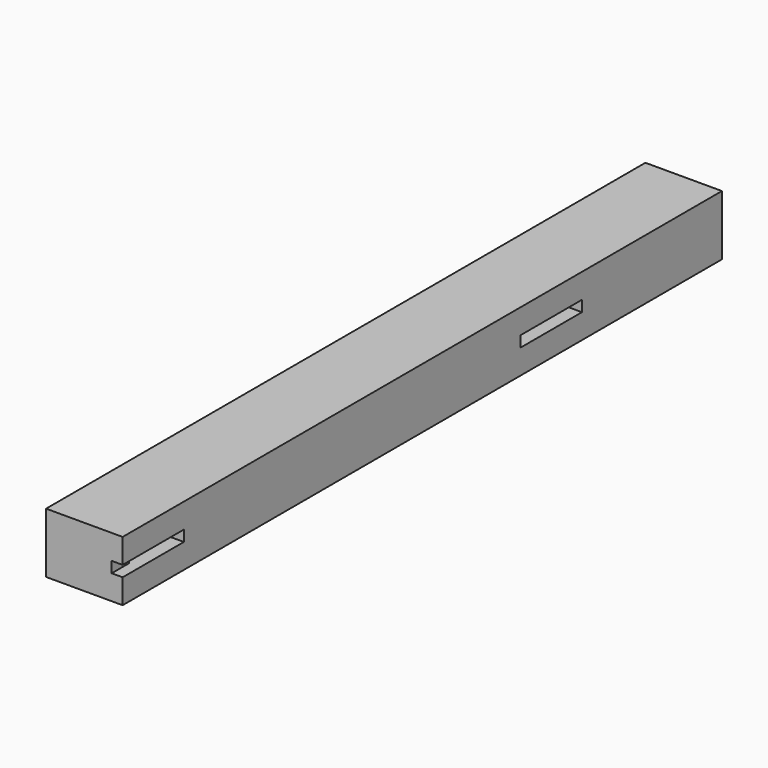
from build123d import *

# Parameters (mm, degrees)
F0_W     = 88.9
F0_H     = 69.85
F1_DEPTH = 869.95
F2_W     = 25.4
F2_H     = 12.7
F3_DEPTH = 12.7
F4_W     = 63.5
F4_H     = 12.7
F5_DEPTH = 88.9
F6_W     = 88.9
F6_H     = 12.7
F7_DEPTH = 88.9


with BuildPart() as f1:
    # F0 (on Front) → F1 (new body)
    with BuildSketch(Plane.XZ):
        with Locations((44.45, 23.882015)):
            Rectangle(F0_W, F0_H)
    extrude(amount=F1_DEPTH)

    # F2 (on face) → F3 (cut)
    with BuildSketch(Plane.YZ.offset(88.9)):
        with Locations((-857.25, 23.882015)):
            Rectangle(F2_W, F2_H)
    extrude(amount=-F3_DEPTH, mode=Mode.SUBTRACT)

    # F4 (on face) → F5 (cut, through all)
    with BuildSketch(Plane.YZ.offset(88.9)):
        with Locations((-812.8, 23.882015)):
            Rectangle(F4_W, F4_H)
    extrude(amount=-F5_DEPTH, mode=Mode.SUBTRACT)

    # F6 (on face) → F7 (cut, through all)
    with BuildSketch(Plane.YZ.offset(88.9)):
        with Locations((-247.65, 23.882015)):
            Rectangle(F6_W, F6_H)
    extrude(amount=-F7_DEPTH, mode=Mode.SUBTRACT)


solid = f1.part
